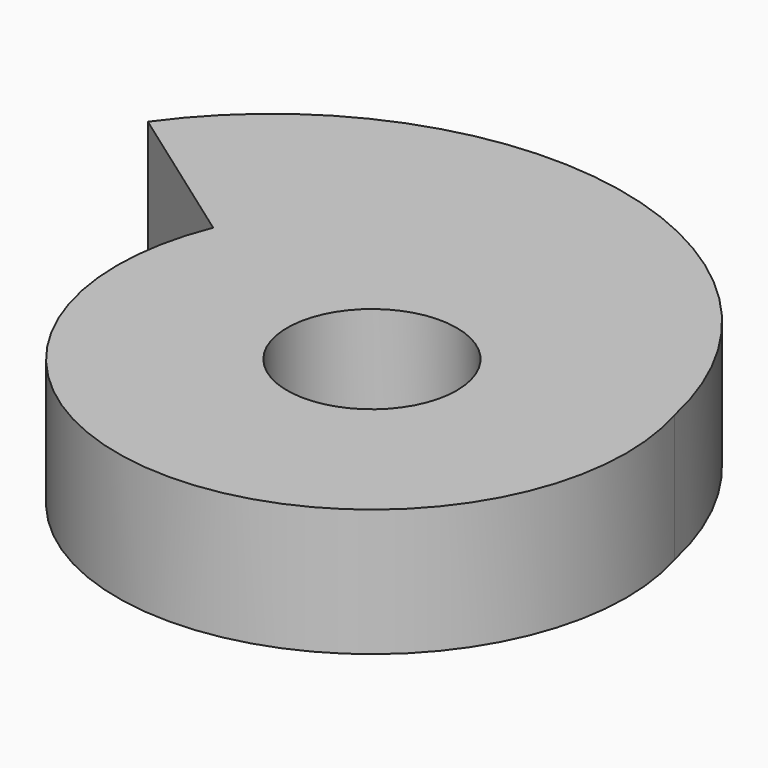
from build123d import *

# Parameters (mm, degrees)
F1_DEPTH = 19.05
F2_R     = 12.7
F3_DEPTH = 25.4


with BuildPart() as f1:
    # F0 (on Top) → F1 (new body)
    with BuildSketch(Plane.XY):
        with BuildLine():
            Line((-58.011321, 30.584007), (-35.277979, 14.390072))
            ThreePointArc((-35.277979, 14.390072), (-1.791175, -38.057873), (36.473568, 11.01312))
            ThreePointArc((36.473568, 11.01312), (-4.385149, 51.618106), (-58.011321, 30.584007))
        make_face()
    extrude(amount=F1_DEPTH)

    # F2 (on face) → F3 (cut)
    with BuildSketch(Plane.XY.offset(19.05)):
        Circle(F2_R)
    extrude(amount=-F3_DEPTH, mode=Mode.SUBTRACT)


solid = f1.part
